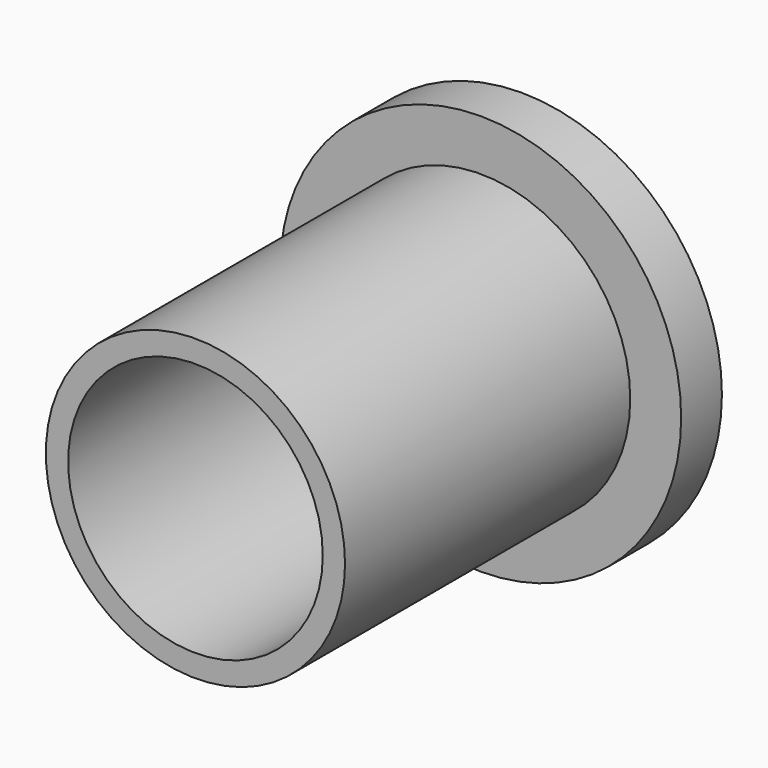
from build123d import *

# Parameters (mm, degrees)
F0_R     = 15.75
F0_R_2   = 11.75
F0_R_3   = 10
F1_DEPTH = 4
F2_DEPTH = 32


with BuildPart() as f1:
    # F0 (on Front) → F1 (new body)
    with BuildSketch(Plane.XZ):
        Circle(F0_R)
        Circle(F0_R_2, mode=Mode.SUBTRACT)
        Circle(F0_R_2)
        Circle(F0_R_3, mode=Mode.SUBTRACT)
    extrude(amount=F1_DEPTH)

    # F0 (on Front) → F2 (join)
    with BuildSketch(Plane.XZ):
        Circle(F0_R_2)
        Circle(F0_R_3, mode=Mode.SUBTRACT)
    extrude(amount=F2_DEPTH)


solid = f1.part
